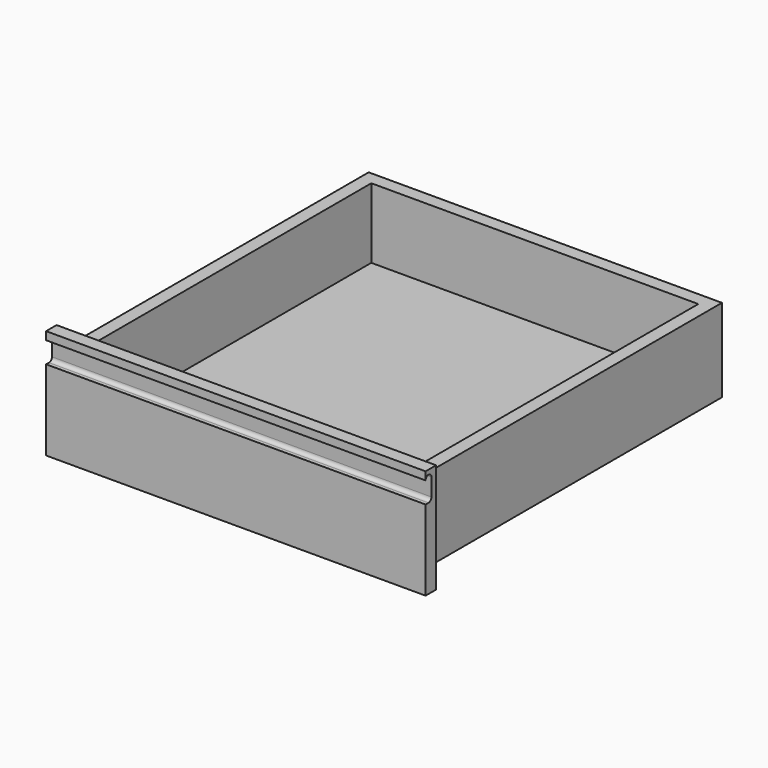
from build123d import *

# Parameters (mm, degrees)
F0_W     = 520
F0_H     = 150
F0_W_2   = 484
F0_H_2   = 114
F1_DEPTH = 18
F2_DEPTH = 530
F3_W     = 448
F3_H     = 476
F4_DEPTH = 96
F6_DEPTH = 539


with BuildPart() as f1:
    # F0 (on Front) → F1 (new body)
    with BuildSketch(Plane.XZ):
        with Locations((260, 75)):
            Rectangle(F0_W, F0_H)
        with Locations((260, 75)):
            Rectangle(F0_W_2, F0_H_2, mode=Mode.SUBTRACT)
    extrude(amount=-F1_DEPTH)

    # F0 (on Front) → F2 (join)
    with BuildSketch(Plane.XZ):
        with Locations((260, 75)):
            Rectangle(F0_W_2, F0_H_2)
    extrude(amount=-F2_DEPTH)

    # F3 (on face) → F4 (cut)
    with BuildSketch(Plane.XY.offset(132)):
        with Locations((260, 274)):
            Rectangle(F3_W, F3_H)
    extrude(amount=-F4_DEPTH, mode=Mode.SUBTRACT)

    # F5 (on face) → F6 (cut)
    with BuildSketch(Plane(origin=(0, 0, 0), x_dir=(0, -1, 0), z_dir=(-1, 0, 0))):
        with BuildLine():
            Line((-5, 110), (0, 110))
            Line((0, 110), (0, 139))
            ThreePointArc((0, 139), (-5, 144), (-10, 139))
            Line((-10, 139), (-10, 115))
            ThreePointArc((-10, 115), (-8.535534, 111.464466), (-5, 110))
        make_face()
    extrude(amount=-F6_DEPTH, mode=Mode.SUBTRACT)


solid = f1.part
